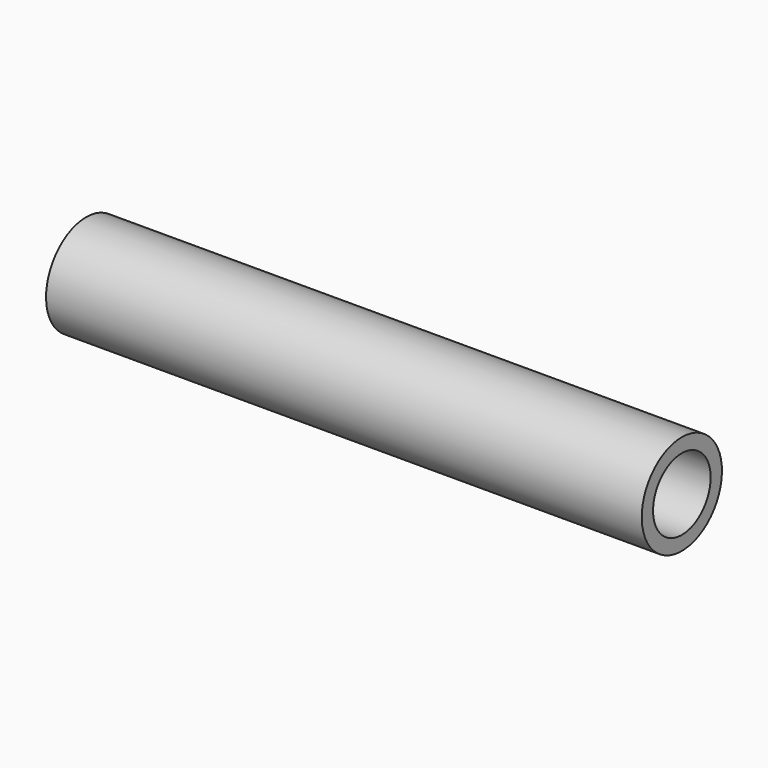
from build123d import *

# Parameters (mm, degrees)
F0_W     = 151.888588
F0_H     = 12.778368
F2_R     = 9.181014
F3_DEPTH = 162.814


with BuildPart() as f1:
    # F0 (on Front) → F1 (revolve)
    with BuildSketch(Plane.XZ):
        with Locations((0.000139, 15.101707)):
            Rectangle(F0_W, F0_H)
    revolve(axis=Axis((0.000139, 0, 8.712523), (1, 0, 0)))

    # F2 (on face) → F3 (cut)
    with BuildSketch(Plane.YZ.offset(75.944433)):
        with Locations((0, 8.712523)):
            Circle(F2_R)
    extrude(amount=-F3_DEPTH, mode=Mode.SUBTRACT)


solid = f1.part
